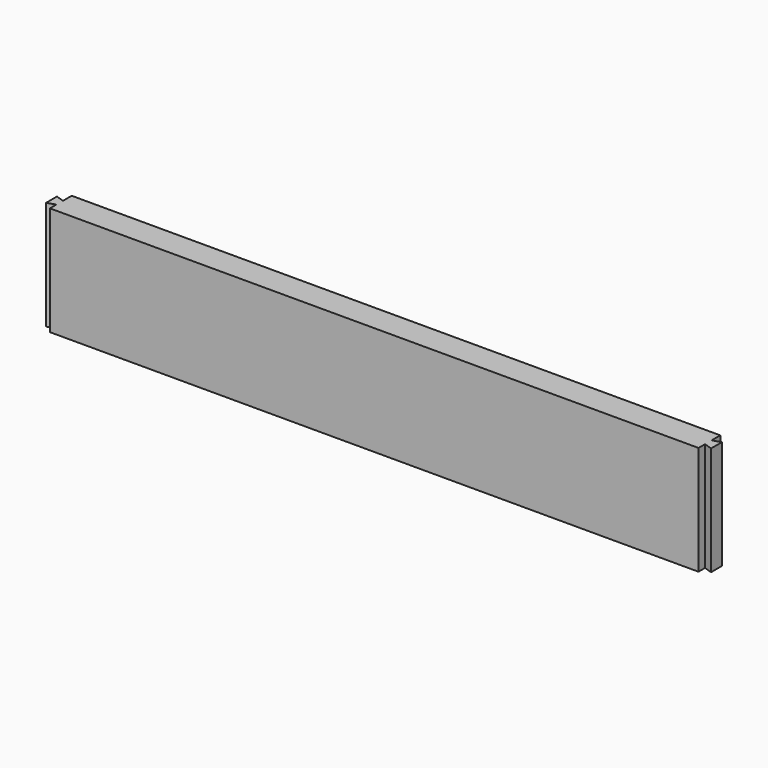
from build123d import *

# Parameters (mm, degrees)
F0_W     = 122
F0_H     = 20
F1_DEPTH = 5
F3_DEPTH = 20.001


with BuildPart() as f1:
    # F0 (on Front) → F1 (new body)
    with BuildSketch(Plane.XZ):
        Rectangle(F0_W, F0_H)
    extrude(amount=F1_DEPTH)

    # F2 (on face) → F3 (cut, through all)
    with BuildSketch(Plane.XY.offset(10)):
        Polygon((-59.5, -2), (-59.5, 0), (-61, 0), (-61, -1.5), align=None)
        Polygon((-59.5, -3.5), (-61, -4), (-61, -5), (-59.5, -5), align=None)
        Polygon((61, 0), (59.5, 0), (59.5, -2), (61, -1.5), align=None)
        Polygon((61, -5), (61, -4), (59.5, -3.5), (59.5, -5), align=None)
    extrude(amount=-F3_DEPTH, mode=Mode.SUBTRACT)


solid = f1.part
